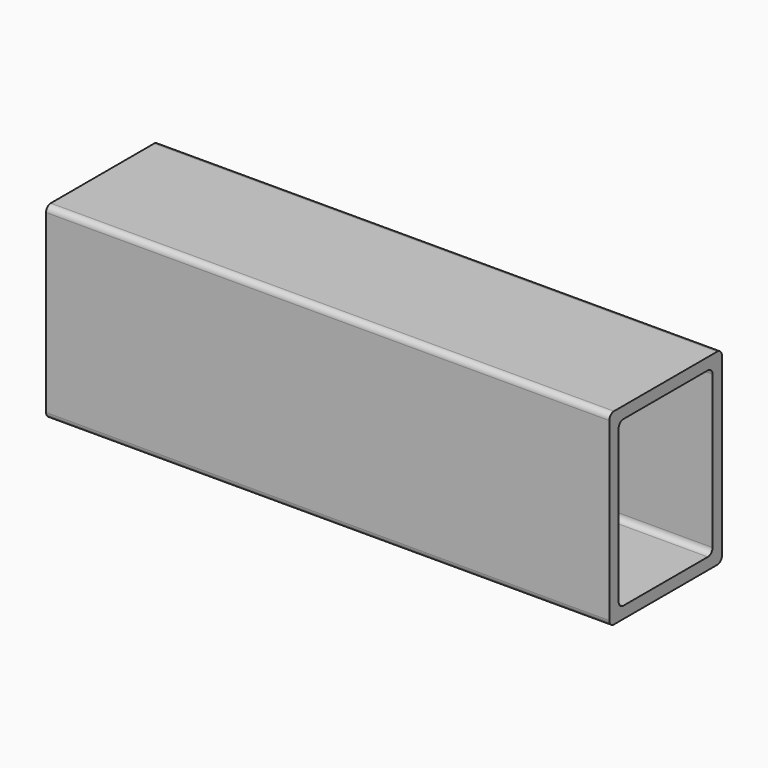
from build123d import *

# Parameters (mm, degrees)
F1_DEPTH = 304.8


with BuildPart() as f1:
    # F0 (on Right) → F1 (new body)
    with BuildSketch(Plane.YZ):
        with BuildLine():
            Line((34.925, 50.8), (-34.925, 50.8))
            ThreePointArc((-34.925, 50.8), (-37.170064, 49.870064), (-38.1, 47.625))
            Line((-38.1, 47.625), (-38.1, -47.625))
            ThreePointArc((-38.1, -47.625), (-37.170064, -49.870064), (-34.925, -50.8))
            Line((-34.925, -50.8), (34.925, -50.8))
            ThreePointArc((34.925, -50.8), (37.170064, -49.870064), (38.1, -47.625))
            Line((38.1, -47.625), (38.1, 47.625))
            ThreePointArc((38.1, 47.625), (37.170064, 49.870064), (34.925, 50.8))
        make_face()
        with BuildLine():
            Line((-31.750001, -41.274999), (-31.750001, 41.275001))
            ThreePointArc((-31.750001, 41.275001), (-30.820065, 43.520065), (-28.575001, 44.450001))
            Line((-28.575001, 44.450001), (28.575001, 44.450001))
            ThreePointArc((28.575001, 44.450001), (30.820065, 43.520065), (31.750001, 41.275001))
            Line((31.750001, 41.275001), (31.750001, -41.274999))
            ThreePointArc((31.750001, -41.274999), (30.820065, -43.520063), (28.575001, -44.449999))
            Line((28.575001, -44.449999), (-28.575001, -44.449999))
            ThreePointArc((-28.575001, -44.449999), (-30.820065, -43.520063), (-31.750001, -41.274999))
        make_face(mode=Mode.SUBTRACT)
    extrude(amount=F1_DEPTH)


solid = f1.part
